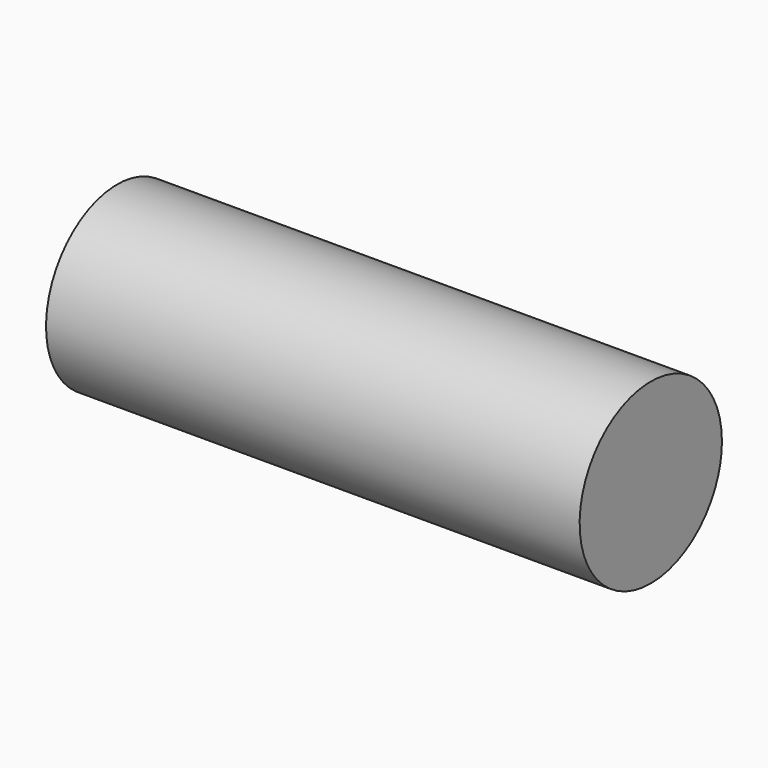
from build123d import *

# Parameters (mm, degrees)
F1_DEPTH = 304.8


with BuildPart() as f1:
    # F0 (on Right) → F1 (new body)
    with BuildSketch(Plane.YZ):
        with BuildLine():
            Line((48.2470816248, -15.901544412), (-48.2470816248, 15.901544412))
            ThreePointArc((-48.2470816248, 15.901544412), (-15.901544412, -48.2470816248), (48.2470816248, -15.901544412))
        make_face()
        with BuildLine():
            ThreePointArc((48.2470816248, -15.901544412), (50.1577100082, -8.052585096), (50.8, 0))
            ThreePointArc((50.8, 0), (8.052585096, 50.1577100082), (-48.2470816248, 15.901544412))
            Line((-48.2470816248, 15.901544412), (48.2470816248, -15.901544412))
        make_face()
    extrude(amount=F1_DEPTH)


with BuildPart() as f2_1:
    # F2: copy of F1
    add(f1.part)


solid = f1.part
